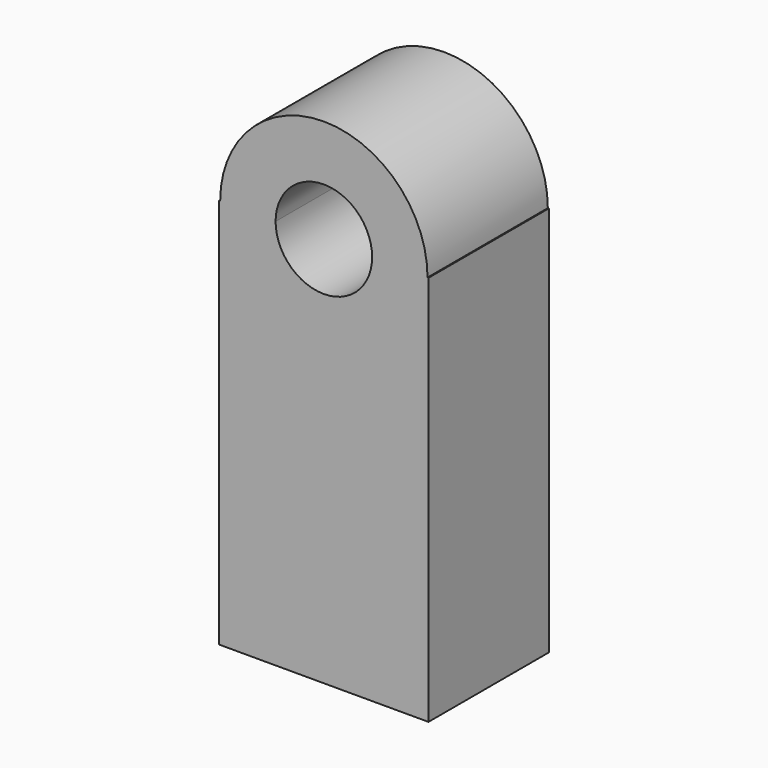
from build123d import *

# Parameters (mm, degrees)
F1_DEPTH = 25.4


with BuildPart() as f1:
    # F0 (on Front) → F1 (new body)
    with BuildSketch(Plane.XZ):
        with BuildLine():
            Line((17.5137386897, 33.018797636), (8.151915001, 33.018797636))
            ThreePointArc((8.151915001, 33.018797636), (0, 24.8668826351), (-8.151915001, 33.018797636))
            Line((-8.151915001, 33.018797636), (-17.5137386897, 33.018797636))
            ThreePointArc((-17.5137386897, 33.018797636), (0, 15.5050589463), (17.5137386897, 33.018797636))
        make_face()
        with BuildLine():
            ThreePointArc((-8.151915001, 33.018797636), (0, 41.170712637), (8.151915001, 33.018797636))
            Line((8.151915001, 33.018797636), (17.5137386897, 33.018797636))
            ThreePointArc((17.5137386897, 33.018797636), (0, 50.5325363258), (-17.5137386897, 33.018797636))
            Line((-17.5137386897, 33.018797636), (-8.151915001, 33.018797636))
        make_face()
        with BuildLine():
            Line((17.6741667092, 33.018797636), (17.5137386897, 33.018797636))
            ThreePointArc((17.5137386897, 33.018797636), (0, 15.5050589463), (-17.5137386897, 33.018797636))
            Line((-17.5137386897, 33.018797636), (-17.6741667092, 33.018797636))
            Line((-17.6741667092, 33.018797636), (-17.6741667092, -33.018797636))
            Line((-17.6741667092, -33.018797636), (17.6741667092, -33.018797636))
            Line((17.6741667092, -33.018797636), (17.6741667092, 33.018797636))
        make_face()
    extrude(amount=F1_DEPTH)


solid = f1.part
